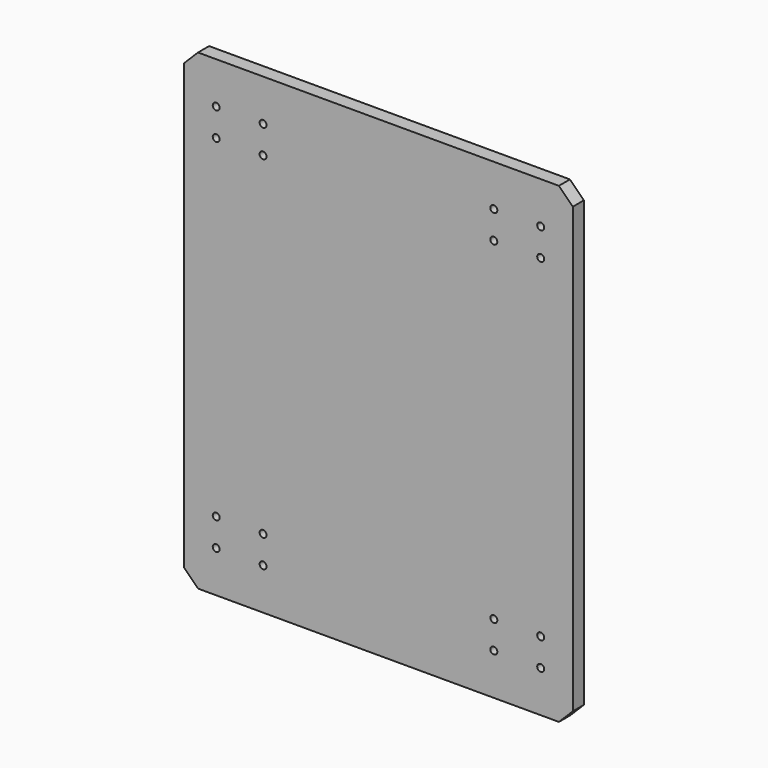
from build123d import *

# Parameters (mm, degrees)
F0_W     = 355.6
F0_H     = 431.8
F1_DEPTH = 12.7
F3_D     = 4.7625
F4_D     = 6.35
F4_DEPTH = 9.525
F4_TIP   = 1.9077324654
F5_SIZE  = 12.7
F7_D     = 6.35
F7_DEPTH = 9.525
F7_TIP   = 1.9077324654


with BuildPart() as f1:
    # F0 (on Front) → F1 (new body)
    with BuildSketch(Plane.XZ):
        with Locations((85.7567511559, 142.1778269973)):
            Rectangle(F0_W, F0_H)
    extrude(amount=F1_DEPTH)

    # F3 (through all)
    with Locations(Plane.XZ.offset(12.7)):
        with Locations((-62.6808488441, 319.9778269973), (-62.6808488441, 294.5778269973), (-19.8056488441, 294.5778269973), (-19.8056488441, 319.9778269973), (191.3191511559, 294.5778269973), (234.1943511559, 294.5778269973), (234.1943511559, 319.9778269973), (191.3191511559, 319.9778269973), (-19.8056488441, -10.2221730027), (-62.6808488441, -10.2221730027), (-62.6808488441, -35.6221730027), (-19.8056488441, -35.6221730027), (191.3191511559, -35.6221730027), (234.1943511559, -35.6221730027), (234.1943511559, -10.2221730027), (191.3191511559, -10.2221730027)):
            Hole(F3_D / 2)

    # F4
    with Locations(Plane.XZ.offset(12.7)):
        with Locations((-62.6808488441, 319.9778269973), (-19.8056488441, 319.9778269973), (-62.6808488441, 294.5778269973), (-19.8056488441, 294.5778269973), (191.3191511559, 294.5778269973), (191.3191511559, 319.9778269973), (234.1943511559, 319.9778269973), (234.1943511559, 294.5778269973), (-19.8056488441, -10.2221730027), (-19.8056488441, -35.6221730027), (-62.6808488441, -35.6221730027), (-62.6808488441, -10.2221730027), (191.3191511559, -10.2221730027), (234.1943511559, -10.2221730027), (234.1943511559, -35.6221730027), (191.3191511559, -35.6221730027)):
            Hole(F4_D / 2, depth=F4_DEPTH)
            with Locations((0, 0, -(F4_DEPTH + F4_TIP / 2))):  # 118° drill point
                Cone(0, F4_D / 2, F4_TIP, mode=Mode.SUBTRACT)

    # F5
    f5_edges = [f1.edges().sort_by_distance(p)[0] for p in [
        (-92.043249, -6.35, 358.077827),
        (263.556751, -6.35, 358.077827),
        (263.556751, -6.35, -73.722173),
        (-92.043249, -6.35, -73.722173),
    ]]
    chamfer(f5_edges, length=F5_SIZE)

    # F7
    with Locations(Plane(origin=(0, 0, 0), x_dir=(-1, 0, 0), z_dir=(0, 1, 0))):
        with Locations((-123.8567511559, 345.3778269973), (-47.6567511559, 345.3778269973), (-47.6567511559, -61.0221730027), (-123.8567511559, -61.0221730027)):
            Hole(F7_D / 2, depth=F7_DEPTH)
            with Locations((0, 0, -(F7_DEPTH + F7_TIP / 2))):  # 118° drill point
                Cone(0, F7_D / 2, F7_TIP, mode=Mode.SUBTRACT)


solid = f1.part
